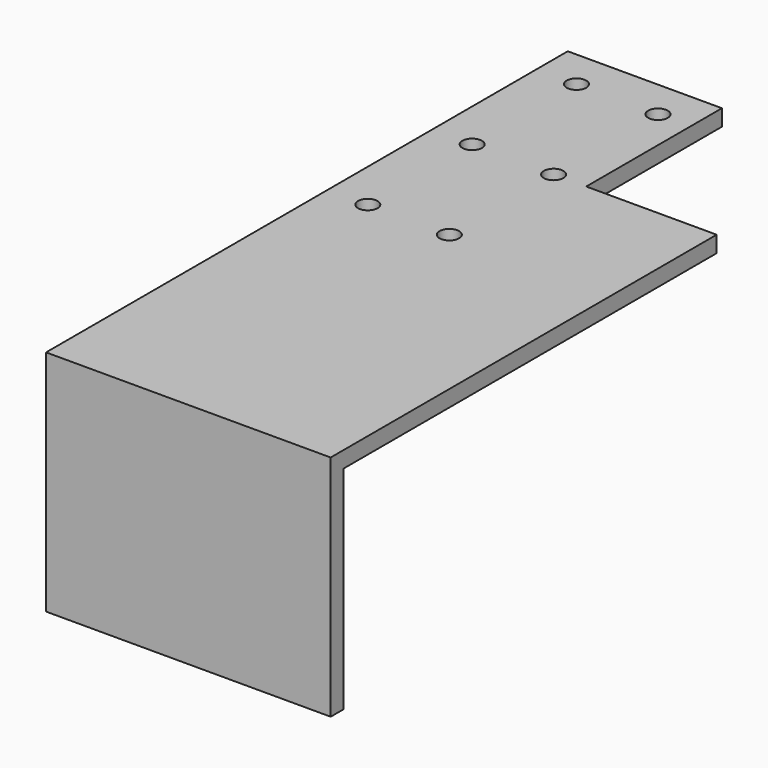
from build123d import *

# Parameters (mm, degrees)
F1_DEPTH = 55.425797
F2_R     = 1.905
F3_DEPTH = 25.4


with BuildPart() as f1:
    # F0 (on Right) → F1 (new body)
    with BuildSketch(Plane.YZ):
        Polygon((-108.333004, -34.925), (-108.333004, 6.35), (15.491996, 6.35), (15.491996, 9.525), (-111.508004, 9.525), (-111.508004, -34.925), align=None)
    extrude(amount=-F1_DEPTH)

    # F2 (on face) → F3 (cut)
    with BuildSketch(Plane.XY.offset(9.525)):
        with Locations((-47.624994, 7.861734)):
            Circle(F2_R)
        with Locations((-47.624994, -17.538266)):
            Circle(F2_R)
        with Locations((-47.624994, -42.938266)):
            Circle(F2_R)
        with Locations((-31.749994, -42.938266)):
            Circle(F2_R)
        with Locations((-31.749994, -17.538266)):
            Circle(F2_R)
        with Locations((-31.749994, 7.861734)):
            Circle(F2_R)
        Polygon((1e-06, 18.049631), (-25.399994, 18.049631), (-25.399994, -17.538266), (6e-06, -17.538266), align=None)
    extrude(amount=-F3_DEPTH, mode=Mode.SUBTRACT)


solid = f1.part
